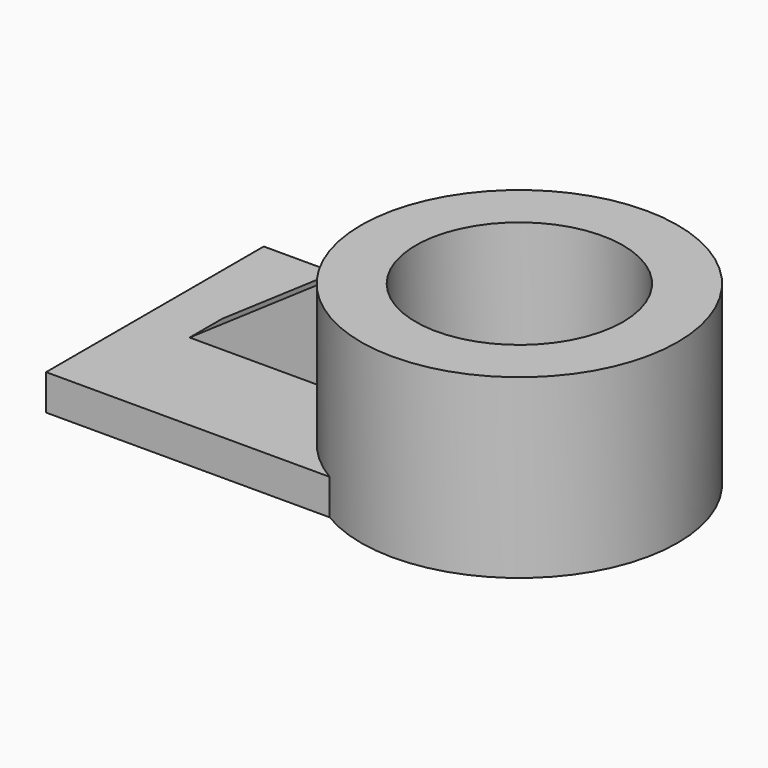
from build123d import *

# Parameters (mm, degrees)
F0_W     = 143.958346
F0_H     = 95.003768
F1_DEPTH = 12.446
F2_R     = 55.280197
F3_DEPTH = 61.722
F4_R     = 36.192072
F5_DEPTH = 61.723
F7_DEPTH = 7.112


with BuildPart() as f1:
    # F0 (on Top) → F1 (new body)
    with BuildSketch(Plane.XY):
        Rectangle(F0_W, F0_H)
    extrude(amount=F1_DEPTH)

    # F2 (on Top) → F3 (join)
    with BuildSketch(Plane.XY):
        with Locations((55.280197, 0)):
            Circle(F2_R)
    extrude(amount=F3_DEPTH)

    # F4 (on face) → F5 (cut, through all)
    with BuildSketch(Plane.XY.offset(61.722)):
        with Locations((55.280197, 0)):
            Circle(F4_R)
    extrude(amount=-F5_DEPTH, mode=Mode.SUBTRACT)

    # F6 (on Front) → F7 (join, symmetric)
    with BuildSketch(Plane.XZ):
        Polygon((9.263087, 7.273367), (9.263087, 56.013633), (-61.697006, 7.273367), align=None)
    extrude(amount=F7_DEPTH, both=True)


solid = f1.part
